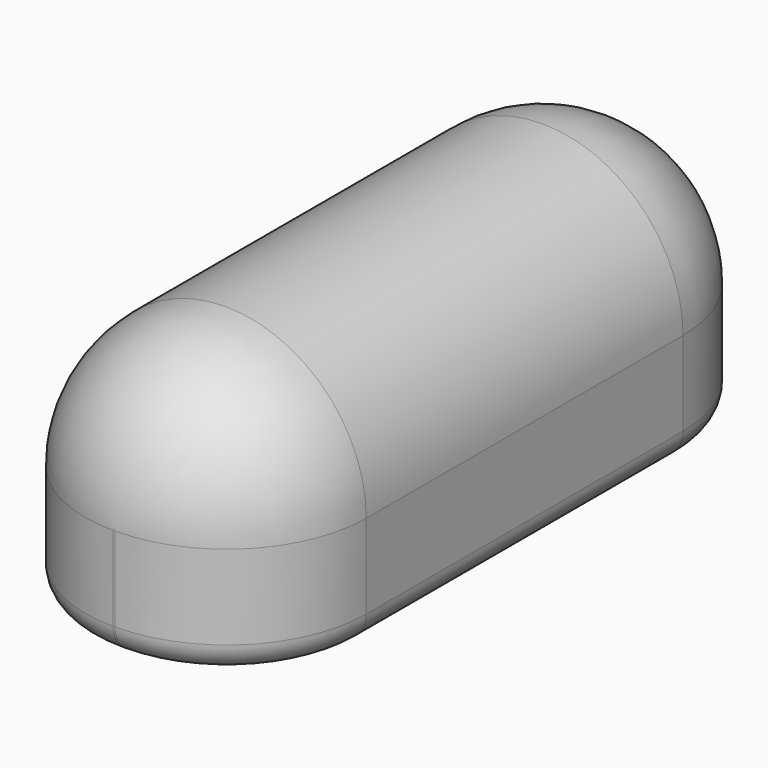
from build123d import *

# Parameters (mm, degrees)
PAD002_DEPTH = 600
FILLET002_R  = 124
FILLET003_R  = 25


with BuildPart() as part:
    # Sketch002 → Pad002 (new body)
    with BuildSketch(Plane.XZ):
        with BuildLine():
            Line((0, 0), (250, 0))
            Line((250, 0), (250, 100))
            ThreePointArc((250, 100), (125, 225), (0, 100))
            Line((0, 100), (0, 0))
        make_face()
    extrude(amount=PAD002_DEPTH)

    # Fillet002
    fillet002_edges = [part.edges().sort_by_distance(p)[0] for p in [
        (125, 0, 225),
        (125, -600, 225),
    ]]
    fillet(fillet002_edges, radius=FILLET002_R)

    # Fillet003
    fillet003_edges = [part.edges().sort_by_distance(p)[0] for p in [
        (0, -300, 0),
        (36.318759, -36.318759, 0),
        (36.318759, -563.681241, 0),
        (125, 0, 0),
        (125, -600, 0),
        (213.681241, -36.318759, 0),
        (213.681241, -563.681241, 0),
        (250, -300, 0),
        (0, -300, 100),
        (0, -124, 50),
        (0, -476, 50),
        (36.318759, -36.318759, 100),
        (124, 0, 50),
        (36.318759, -563.681241, 100),
        (124, -600, 50),
        (126, 0, 50),
        (125, 0, 101),
        (126, -600, 50),
        (125, -600, 101),
        (250, -124, 50),
        (213.681241, -36.318759, 100),
        (250, -476, 50),
        (213.681241, -563.681241, 100),
        (250, -300, 100),
        (125, -124, 225),
        (125, -476, 225),
    ]]
    fillet(fillet003_edges, radius=FILLET003_R)


with BuildPart() as part_1:
    # Body002 placement: moved
    add(part.part.moved(Location((0, -100, 200))))


solid = part_1.part
